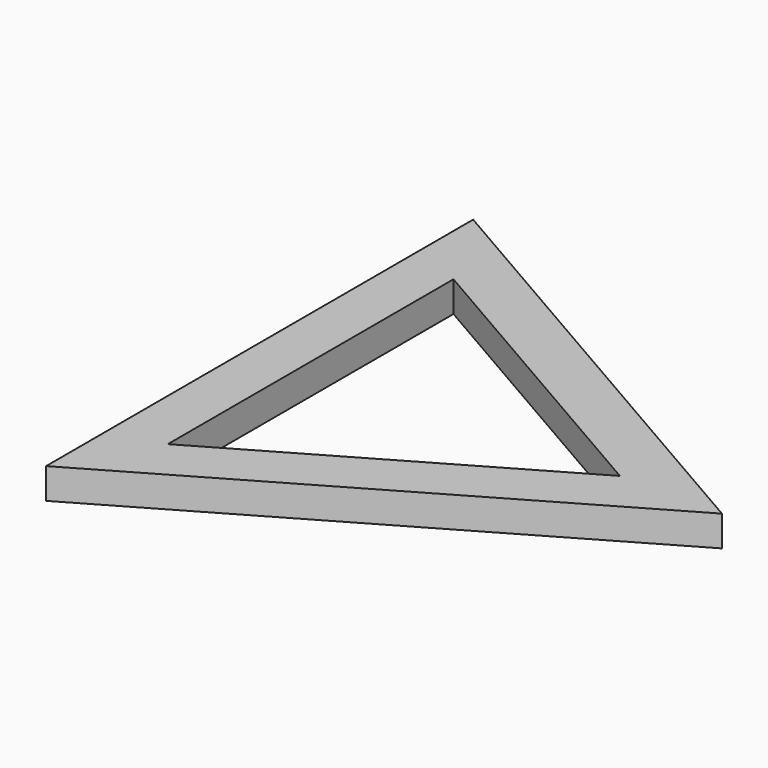
from build123d import *

# Parameters (mm, degrees)
PRISM003_DEPTH = 15
PRISM001_DEPTH = 3
PRISM_DEPTH    = 3
PRISM002_DEPTH = 15


with BuildPart() as prism003:
    # Prism003 → Prism003 (new body)
    with BuildSketch(Plane.XY):
        Polygon((101, 0), (-50.5, 87.468566), (-50.5, -87.468566), align=None)
    extrude(amount=PRISM003_DEPTH)


with BuildPart() as prism001:
    # Prism001 → Prism001 (new body)
    with BuildSketch(Plane.XY):
        Polygon((116, 0), (-58, 100.458947), (-58, -100.458947), align=None)
    extrude(amount=PRISM001_DEPTH)


with BuildPart() as cut:
    # Prism → Prism (new body)
    with BuildSketch(Plane.XY):
        Polygon((136, 0), (-68, 117.779455), (-68, -117.779455), align=None)
    extrude(amount=PRISM_DEPTH)

    # Cut: cut Prism001
    add(prism001.part, mode=Mode.SUBTRACT)


with BuildPart() as cut002:
    # Prism002 → Prism002 (new body)
    with BuildSketch(Plane.XY):
        Polygon((151, 0), (-75.5, 130.769836), (-75.5, -130.769836), align=None)
    extrude(amount=PRISM002_DEPTH)

    # Cut001: cut Cut
    add(cut.part, mode=Mode.SUBTRACT)

    # Cut002: cut Prism003
    add(prism003.part, mode=Mode.SUBTRACT)


solid = cut002.part
